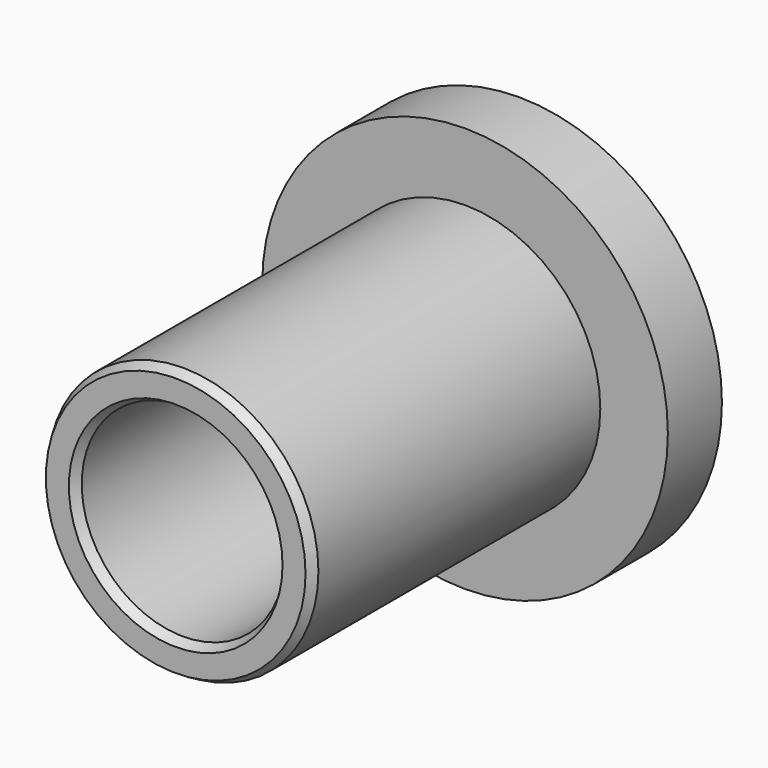
from build123d import *

# Parameters (mm, degrees)
F0_R     = 6.3546461802
F0_R_2   = 4.7651897048
F1_DEPTH = 20.1676
F0_R_3   = 9.5290040224
F2_DEPTH = 3.175
F3_SIZE2 = 0.4399409051
F3_SIZE  = 0.254
F4_SIZE2 = 0.4399409051
F4_SIZE  = 0.254
F5_SIZE2 = 0.4399409051
F5_SIZE  = 0.254


with BuildPart() as f1:
    # F0 (on Front) → F1 (new body)
    with BuildSketch(Plane.XZ):
        with Locations((-20.2871672809, 11.8006402627)):
            Circle(F0_R)
        with Locations((-20.2871672809, 11.8006402627)):
            Circle(F0_R_2, mode=Mode.SUBTRACT)
    extrude(amount=F1_DEPTH)

    # F3
    f3_edges = [f1.edges().sort_by_distance(p)[0] for p in [
        (-26.641813, -20.1676, 11.80064),
    ]]
    f3_side = f1.faces().sort_by_distance((-26.462077, -20.1676, 11.80064))[0]
    chamfer(f3_edges, length=F3_SIZE, length2=F3_SIZE2, reference=f3_side)

    # F4
    f4_edges = [f1.edges().sort_by_distance(p)[0] for p in [
        (-25.052357, -20.1676, 11.80064),
    ]]
    f4_side = f1.faces().sort_by_distance((-26.215261, -20.1676, 11.80064))[0]
    chamfer(f4_edges, length=F4_SIZE, length2=F4_SIZE2, reference=f4_side)

    # F5
    f5_edges = [f1.edges().sort_by_distance(p)[0] for p in [
        (-25.052357, 0, 11.80064),
    ]]
    f5_side = f1.faces().sort_by_distance((-25.052357, -9.86383, 11.80064))[0]
    chamfer(f5_edges, length=F5_SIZE, length2=F5_SIZE2, reference=f5_side)


with BuildPart() as f2:
    # F0 (on Front) → F2 (new body)
    with BuildSketch(Plane.XZ):
        with Locations((-20.2871672809, 11.8006402627)):
            Circle(F0_R_3)
        with Locations((-20.2871672809, 11.8006402627)):
            Circle(F0_R, mode=Mode.SUBTRACT)
    extrude(amount=F2_DEPTH)


solid = Compound([f1.part, f2.part])
